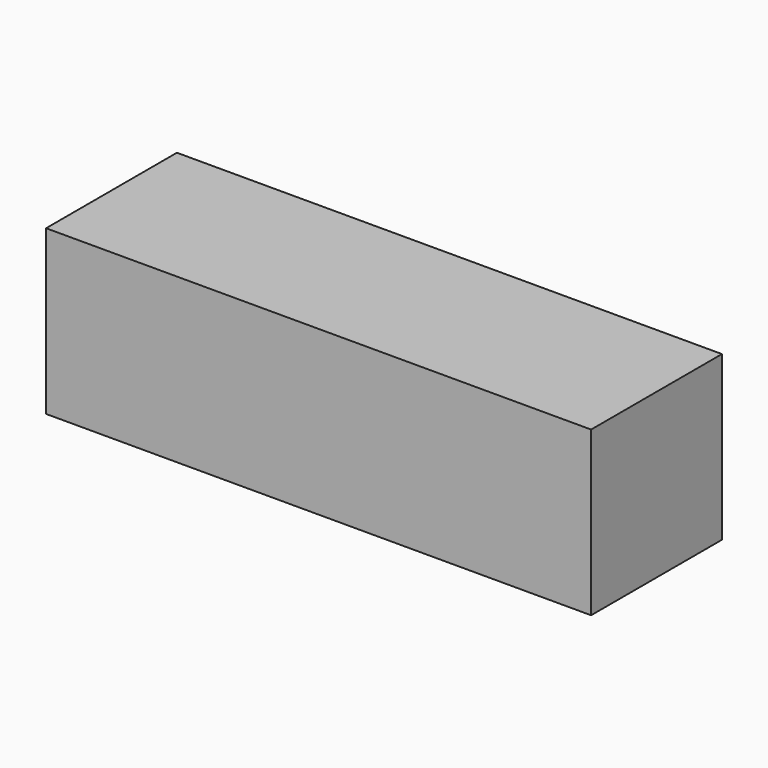
from build123d import *

# Parameters (mm, degrees)
BOX_W     = 100
BOX_H     = 30
BOX_DEPTH = 30


with BuildPart() as part:
    # Box → Box (new body)
    with BuildSketch(Plane.XY):
        with Locations((50, 15)):
            Rectangle(BOX_W, BOX_H)
    extrude(amount=BOX_DEPTH)


solid = part.part
